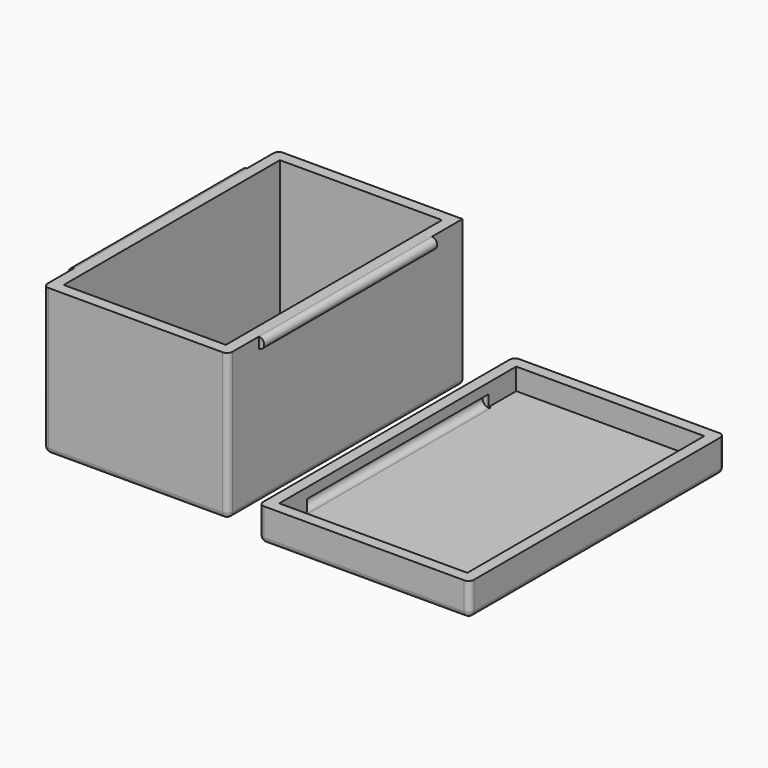
from build123d import *

# Parameters (mm, degrees)
TONGUE_LEFT_R          = 1
TONGUE_LEFT_DEPTH      = 40
TONGUE_RIGHT_R         = 1
TONGUE_RIGHT_DEPTH     = 40
CASE_INSIDE_W          = 30
CASE_INSIDE_H          = 50
CASE_INSIDE_DEPTH      = 25
CASE_OUTSIDE_W         = 34.2
CASE_OUTSIDE_H         = 54.2
CASE_OUTSIDE_DEPTH     = 27.1
FILLET_R               = 1
LID_GROOVE_LEFT_R      = 1.1
LID_GROOVE_LEFT_DEPTH  = 42
LID_GROOVE_RIGHT_R     = 1.1
LID_GROOVE_RIGHT_DEPTH = 42
LID_INSIDE_W           = 34.8
LID_INSIDE_H           = 54.8
LID_INSIDE_DEPTH       = 4
LID_OUTSIDE_W          = 39
LID_OUTSIDE_H          = 59
LID_OUTSIDE_DEPTH      = 6.1
FILLET001_R            = 1


with BuildPart() as tongue_left:
    # tongue_left → tongue_left (new body)
    with BuildSketch(Plane(origin=(-2.1, 5, 24), x_dir=(1, 0, 0), z_dir=(0, 1, 0))):
        Circle(TONGUE_LEFT_R)
    extrude(amount=TONGUE_LEFT_DEPTH)


with BuildPart() as tongue_right:
    # tongue_right → tongue_right (new body)
    with BuildSketch(Plane(origin=(32.1, 5, 24), x_dir=(1, 0, 0), z_dir=(0, 1, 0))):
        Circle(TONGUE_RIGHT_R)
    extrude(amount=TONGUE_RIGHT_DEPTH)


with BuildPart() as case_inside:
    # case_inside → case_inside (new body)
    with BuildSketch(Plane.XY):
        with Locations((15, 25)):
            Rectangle(CASE_INSIDE_W, CASE_INSIDE_H)
    extrude(amount=CASE_INSIDE_DEPTH)


with BuildPart() as fillet_body:
    # case_outside → case_outside (new body)
    with BuildSketch(Plane(origin=(-2.1, -2.1, -2.1), x_dir=(1, 0, 0), z_dir=(0, 0, 1))):
        with Locations((17.1, 27.1)):
            Rectangle(CASE_OUTSIDE_W, CASE_OUTSIDE_H)
    extrude(amount=CASE_OUTSIDE_DEPTH)

    # Cut: cut case_inside
    add(case_inside.part, mode=Mode.SUBTRACT)

    # Fusion: union tongue_left, tongue_right
    add(tongue_left.part)
    add(tongue_right.part)

    # Fillet
    fillet_edges = [fillet_body.edges().sort_by_distance(p)[0] for p in [
        (-2.1, 52.1, 11.45),
        (-2.1, 25, -2.1),
        (-2.1, -2.1, 11.45),
        (15, 52.1, -2.1),
        (15, -2.1, -2.1),
        (32.1, -2.1, 11.45),
        (32.1, 25, -2.1),
    ]]
    fillet(fillet_edges, radius=FILLET_R)


with BuildPart() as lid_groove_left:
    # lid_groove_left → lid_groove_left (new body)
    with BuildSketch(Plane(origin=(-2.4, 4, 1), x_dir=(1, 0, 0), z_dir=(0, 1, 0))):
        Circle(LID_GROOVE_LEFT_R)
    extrude(amount=LID_GROOVE_LEFT_DEPTH)


with BuildPart() as lid_groove_right:
    # lid_groove_right → lid_groove_right (new body)
    with BuildSketch(Plane(origin=(32.4, 4, 1), x_dir=(1, 0, 0), z_dir=(0, 1, 0))):
        Circle(LID_GROOVE_RIGHT_R)
    extrude(amount=LID_GROOVE_RIGHT_DEPTH)


with BuildPart() as lid_inside:
    # lid_inside → lid_inside (new body)
    with BuildSketch(Plane(origin=(-2.4, -2.4, 0), x_dir=(1, 0, 0), z_dir=(0, 0, 1))):
        with Locations((17.4, 27.4)):
            Rectangle(LID_INSIDE_W, LID_INSIDE_H)
    extrude(amount=LID_INSIDE_DEPTH)


with BuildPart() as lid:
    # lid_outside → lid_outside (new body)
    with BuildSketch(Plane(origin=(-4.5, -4.5, -2.1), x_dir=(1, 0, 0), z_dir=(0, 0, 1))):
        with Locations((19.5, 29.5)):
            Rectangle(LID_OUTSIDE_W, LID_OUTSIDE_H)
    extrude(amount=LID_OUTSIDE_DEPTH)

    # Cut001: cut lid_inside
    add(lid_inside.part, mode=Mode.SUBTRACT)

    # Cut002: cut lid_groove_right
    add(lid_groove_right.part, mode=Mode.SUBTRACT)

    # Cut003: cut lid_groove_left
    add(lid_groove_left.part, mode=Mode.SUBTRACT)

    # Fillet001
    fillet001_edges = [lid.edges().sort_by_distance(p)[0] for p in [
        (-4.5, -4.5, 0.95),
        (-4.5, 54.5, 0.95),
        (-4.5, 25, -2.1),
        (15, -4.5, -2.1),
        (34.5, -4.5, 0.95),
        (15, 54.5, -2.1),
        (34.5, 54.5, 0.95),
        (34.5, 25, -2.1),
    ]]
    fillet(fillet001_edges, radius=FILLET001_R)


with BuildPart() as lid_1:
    # Fillet001 placement: moved
    add(lid.part.moved(Location((44.2, 0, 0))))


solid = Compound([fillet_body.part, lid_1.part])
